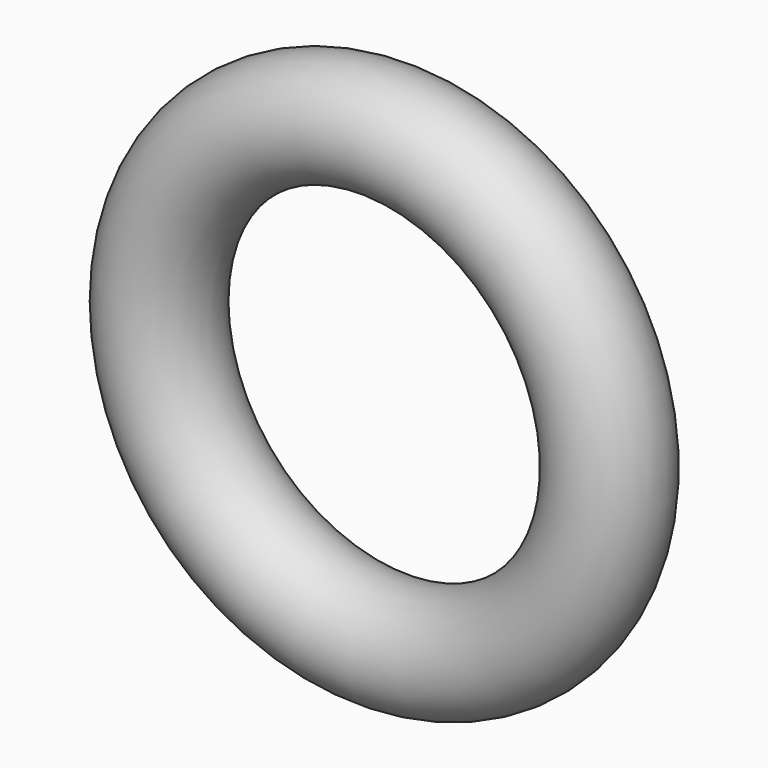
from build123d import *

# Parameters (mm, degrees)
SKETCH002_R = 3.961642


with BuildPart() as part:
    # Sketch002 → Revolution (revolve)
    with BuildSketch(Plane.XY):
        with Locations((-16.453489, 0.478965)):
            Circle(SKETCH002_R)
    revolve(axis=Axis((0, 0, 0), (0, 1, 0)))


solid = part.part
